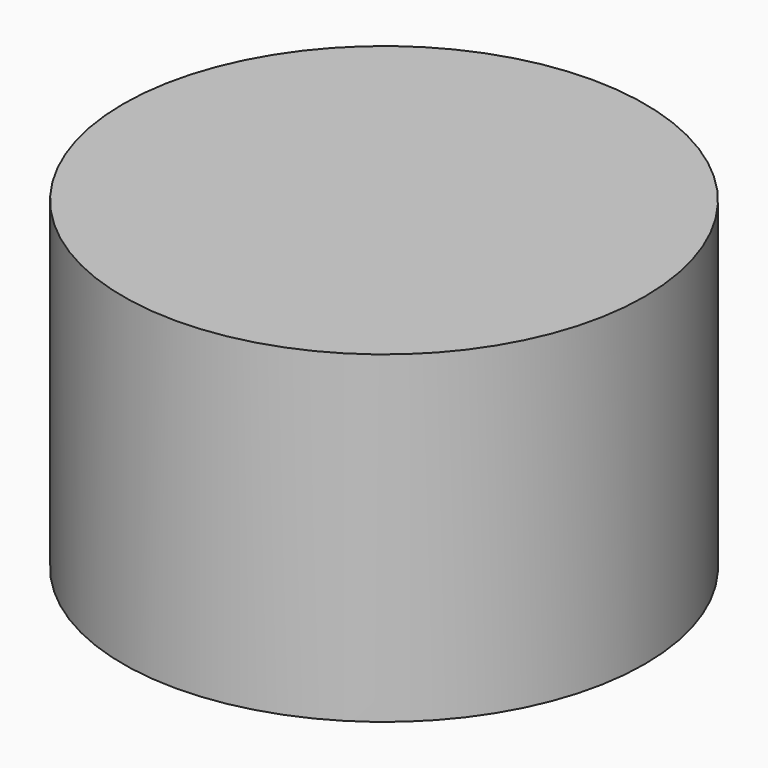
from build123d import *

# Parameters (mm, degrees)
F0_R      = 67.965183
F1_DEPTH  = 58.928
F1_FACE_R = 67.965183
F3_DEPTH  = 25.4


with BuildPart() as f1:
    # F0 (on Top) → F1 (new body)
    with BuildSketch(Plane.XY):
        Circle(F0_R)
    extrude(amount=F1_DEPTH)

    # F2 (on Top) + F1_face (on face) → F3 (join)
    with BuildSketch(Plane.XY):
        Polygon((-24.519621, -40.824954), (23.496911, -40.40869), (47.144682, 1.382979), (22.775921, 42.758383), (-25.240611, 42.342119), (-48.888382, 0.550451), align=None)
    with BuildSketch(Plane.XY.offset(58.928)):
        Circle(F1_FACE_R)
        Circle(F1_FACE_R)
    extrude(amount=F3_DEPTH)


solid = f1.part
